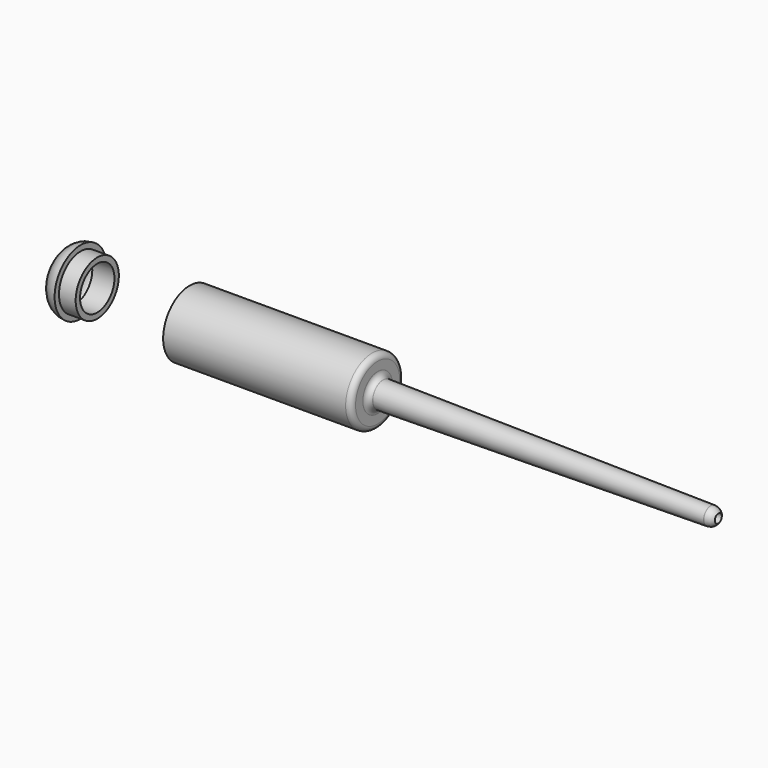
from build123d import *


with BuildPart() as f1:
    # F0 (on Top) → F1 (revolve)
    with BuildSketch(Plane.XY):
        with BuildLine():
            Line((108.135276, 4.96077), (304.199104, 2.507519))
            ThreePointArc((304.199104, 2.507519), (302.399348, 4.345476), (299.928741, 5.061936))
            Line((299.928741, 5.061936), (299.8, 5.063573))
            Line((299.8, 5.063573), (111.35, 7.459631))
            ThreePointArc((111.35, 7.459631), (111.309631, 7.459888), (111.269269, 7.460658))
            ThreePointArc((111.269269, 7.460658), (109.090527, 8.403961), (108.175, 10.594519))
            ThreePointArc((108.175, 10.594519), (108.174743, 10.634888), (108.175, 10.675257))
            Line((108.175, 10.675257), (108.175, 15.875))
            ThreePointArc((108.175, 15.875), (107.245064, 18.120064), (105, 19.05))
            Line((105, 19.05), (0, 19.05))
            Line((0, 19.05), (0, 15.875))
            Line((0, 15.875), (101.825, 15.875))
            ThreePointArc((101.825, 15.875), (104.070064, 14.945064), (105, 12.7))
            Line((105, 12.7), (105, 8.135521))
            ThreePointArc((105, 8.135521), (105.915935, 5.904546), (108.135276, 4.96077))
        make_face()
    revolve(axis=Axis((152.4, 0, 0), (1, 0, 0)))


with BuildPart() as f3:
    # F2 (on Top) → F3 (revolve)
    with BuildSketch(Plane.XY):
        with BuildLine():
            Line((-53.719763, 13.066132), (-53.719763, 16.241132))
            Line((-53.719763, 16.241132), (-63.297239, 16.241132))
            Line((-63.297239, 16.241132), (-63.297239, 19.416132))
            ThreePointArc((-63.297239, 19.416132), (-70.576199, 16.401089), (-73.591243, 9.122129))
            Line((-73.591243, 9.122129), (-73.591243, 0.699192))
            Line((-73.591243, 0.699192), (-70.416243, 0.699192))
            Line((-70.416243, 0.699192), (-70.416243, 9.122129))
            ThreePointArc((-70.416243, 9.122129), (-69.364357, 13.191385), (-66.472239, 16.241132))
            Line((-66.472239, 16.241132), (-66.472239, 13.066132))
            Line((-66.472239, 13.066132), (-53.719763, 13.066132))
        make_face()
    revolve(axis=Axis((-72.003743, 0.699192, 0), (1, 0, 0)))


solid = Compound([f1.part, f3.part])
